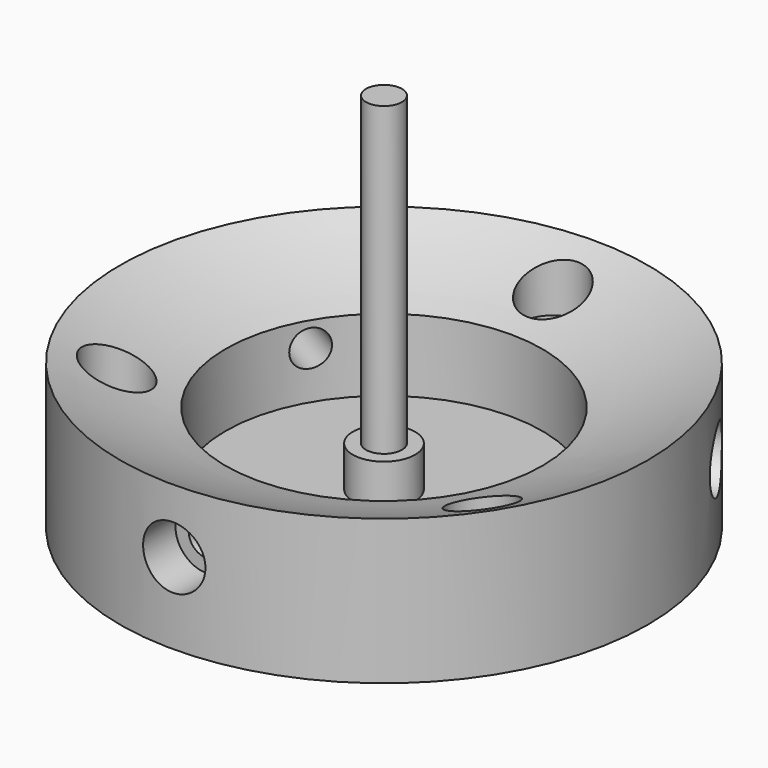
from build123d import *

# Parameters (mm, degrees)
CYLINDER_R               = 2.95
CYLINDER_DEPTH           = 7
CYLINDER001_R            = 1.7
CYLINDER001_DEPTH        = 30
CLONE308_ROLL_ANGLE      = -90
ARRAY013_COUNT           = 3
CLONE307_PLACEMENT_ANGLE = 180
ARRAY012_COUNT           = 3


with BuildPart() as m3bolthead:
    # Cylinder → Cylinder (new body)
    with BuildSketch(Plane.XY):
        Circle(CYLINDER_R)
    extrude(amount=CYLINDER_DEPTH)


with BuildPart() as m3bolt:
    # Cylinder001 → Cylinder001 (new body)
    with BuildSketch(Plane.XY.offset(6)):
        Circle(CYLINDER001_R)
    extrude(amount=CYLINDER001_DEPTH)

    # Fusion: union M3BoltHead
    add(m3bolthead.part)


with BuildPart() as array013:
    # Clone308 base: copy of M3Bolt
    add(m3bolt.part)


with BuildPart() as array013_1:
    # Clone308 roll: moved
    add(array013.part.rotate(Axis((0, 0, 0), (1, 0, 0)), CLONE308_ROLL_ANGLE))


with BuildPart() as array013_2:
    # Clone308 placement: moved
    add(array013_1.part.moved(Location((0, -28, 7.65))))

    # Array013: Array013 ×3 about axis
    array013_axis = Axis((0, 0, 0), (0, 0, 1))


with BuildPart() as array013_3:
    add(array013_2.part)
    for i in range(1, ARRAY013_COUNT):
        add(array013_2.part.rotate(array013_axis, i * 360 / ARRAY013_COUNT))


with BuildPart() as fusion110:
    # Clone307 base: copy of M3Bolt
    add(m3bolt.part)


with BuildPart() as fusion110_1:
    # Clone307 placement: moved
    add(fusion110.part.moved(Location((0, 20, 15))).rotate(Axis((0, 20, 15), (0, 1, 0)), CLONE307_PLACEMENT_ANGLE))

    # Array012: Fusion110 ×3 about axis
    array012_axis = Axis((0, 0, 0), (0, 0, 1))


with BuildPart() as fusion110_2:
    add(fusion110_1.part)
    for i in range(1, ARRAY012_COUNT):
        add(fusion110_1.part.rotate(array012_axis, i * 360 / ARRAY012_COUNT))

    # Fusion110: union Array013
    add(array013_3.part)


with BuildPart() as obj1:
    # Sketch060 → Revolution013 (revolve)
    with BuildSketch(Plane.XZ):
        with BuildLine():
            Line((25, 13.719212), (25, 0))
            Line((25, 0), (0, 0))
            Line((0, 0), (0, 3.15))
            Line((0, 3.15), (15, 3.15))
            Line((15, 3.15), (15, 9.990992))
            ThreePointArc((15, 9.990992), (20.086685, 11.622592), (25, 13.719212))
        make_face()
    revolve(axis=Axis((0, 0, 0), (0, 0, 1)))

    # Cut091: cut Fusion110
    add(fusion110_2.part, mode=Mode.SUBTRACT)


solid = Compound([m3bolt.part, obj1.part])
